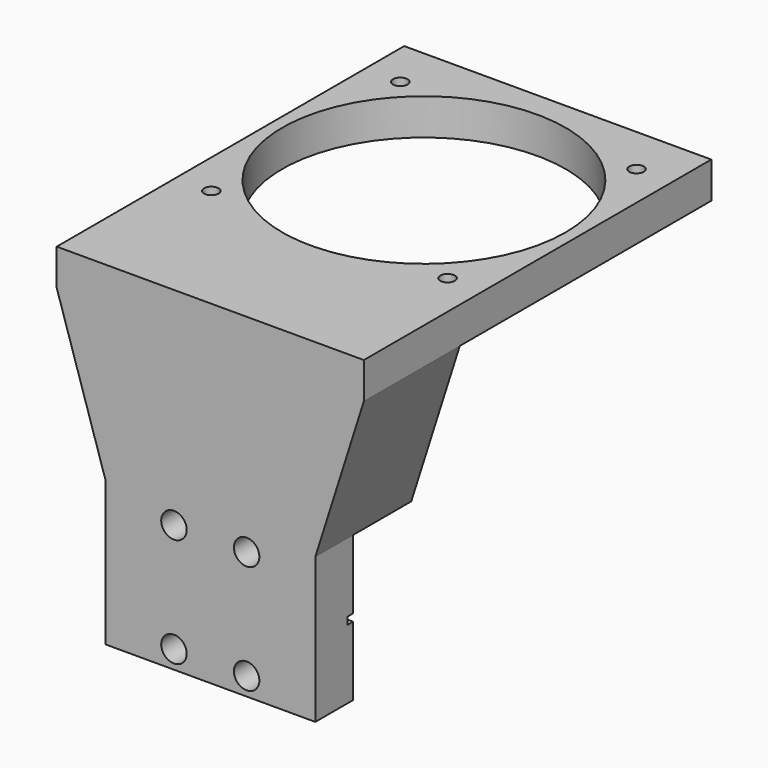
from build123d import *

# Parameters (mm, degrees)
SKETCH010_R     = 1.75
PAD005_DEPTH    = 6.5
PAD006_DEPTH    = 10
SKETCH012_R     = 3
POCKET004_DEPTH = 14.45
SKETCH013_W     = 42.25
SKETCH013_H     = 43.25
SKETCH013_R     = 19.5
SKETCH013_R_2   = 1
PAD007_DEPTH    = 5
SKETCH054_W     = 13.95
SKETCH054_H     = 1
POCKET023_DEPTH = 1


with BuildPart() as part:
    # Sketch010 → Pad005 (new body)
    with BuildSketch(Plane.XZ):
        Polygon((14.45, 10), (14.45, -10), (-14.45, -10), (-14.45, 10), (-21.125, 31), (-21.125, 36), (21.125, 36), (21.125, 31), align=None)
        with Locations((-5, 7.5)):
            Circle(SKETCH010_R, mode=Mode.SUBTRACT)
        with Locations((5, 7.5)):
            Circle(SKETCH010_R, mode=Mode.SUBTRACT)
        with Locations((-5, -7.5)):
            Circle(SKETCH010_R, mode=Mode.SUBTRACT)
        with Locations((5, -7.5)):
            Circle(SKETCH010_R, mode=Mode.SUBTRACT)
    extrude(amount=PAD005_DEPTH)

    # Sketch011 → Pad006 (join)
    with BuildSketch(Plane.XZ):
        Polygon((-21.125, 36), (21.125, 36), (21.125, 31), (14.45, 10), (-14.45, 10), (-21.125, 31), align=None)
    extrude(amount=-PAD006_DEPTH)

    # Sketch012 → Pocket004 (cut, symmetric)
    with BuildSketch(Plane.YZ):
        with Locations((5, -14.5)):
            Circle(SKETCH012_R)
    extrude(amount=POCKET004_DEPTH, both=True, mode=Mode.SUBTRACT)

    # Sketch013 → Pad007 (join)
    with BuildSketch(Plane.XY.offset(36)):
        with Locations((0, 31.625)):
            Rectangle(SKETCH013_W, SKETCH013_H)
        with Locations((0, 30.240935)):
            Circle(SKETCH013_R, mode=Mode.SUBTRACT)
        with Locations((-16.25, 46.490935)):
            Circle(SKETCH013_R_2, mode=Mode.SUBTRACT)
        with Locations((16.25, 46.490935)):
            Circle(SKETCH013_R_2, mode=Mode.SUBTRACT)
        with Locations((16.25, 13.990935)):
            Circle(SKETCH013_R_2, mode=Mode.SUBTRACT)
        with Locations((-16.25, 13.990935)):
            Circle(SKETCH013_R_2, mode=Mode.SUBTRACT)
    extrude(amount=-PAD007_DEPTH)

    # Sketch054 → Pocket023 (cut)
    with BuildSketch(Plane.XZ):
        with Locations((-7.475, 0)):
            Rectangle(SKETCH054_W, SKETCH054_H)
        with Locations((7.475, 0)):
            Rectangle(SKETCH054_W, SKETCH054_H)
    extrude(amount=POCKET023_DEPTH, mode=Mode.SUBTRACT)


with BuildPart() as part_1:
    # Body003 placement: moved
    add(part.part.moved(Location((-30.55, -3.5, 0))))


solid = part_1.part
